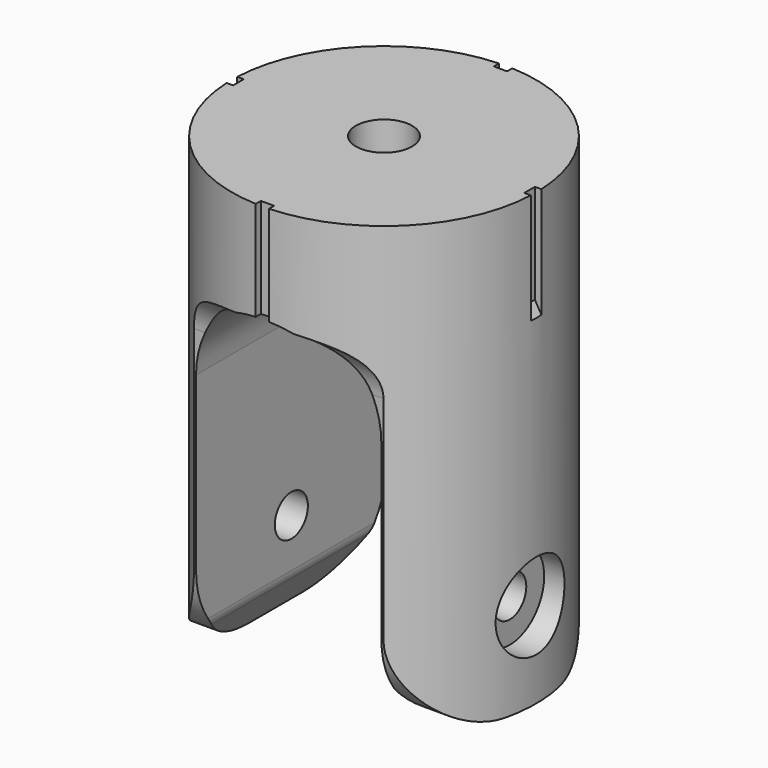
from build123d import *

# Parameters (mm, degrees)
F0_R           = 23
F1_DEPTH       = 68
F3_DEPTH       = 23.001
F3_DEPTH_BACK  = 23.001
F5_DEPTH       = 23.0010001
F5_DEPTH_BACK  = 23.0010001
F8_R           = 4.25
F9_DEPTH       = 25
F12_DEPTH      = 10
F13_W          = 2
F13_H          = 2
F14_DEPTH      = 25
F16_DEPTH      = 1
F16_DEPTH_BACK = 1


with BuildPart() as f1:
    # F0 (on Top) → F1 (new body)
    with BuildSketch(Plane.XY):
        Circle(F0_R)
    extrude(amount=-F1_DEPTH)

    # F2 (on Right) → F3 (cut, two sides)
    with BuildSketch(Plane.YZ) as f3_sk:
        with BuildLine():
            Line((-25, -15), (-28, -15))
            Line((-28, -15), (-28, -73))
            Line((-28, -73), (0, -73))
            Line((0, -73), (28, -73))
            Line((28, -73), (28, -15))
            Line((28, -15), (25, -15))
            ThreePointArc((25, -15), (20, -17.6457513111), (18, -22.9372539332))
            Line((18, -22.9372539332), (18, -55))
            ThreePointArc((18, -55), (14.1923881554, -64.1923881554), (5, -68))
            Line((5, -68), (0, -68))
            Line((0, -68), (-5, -68))
            ThreePointArc((-5, -68), (-14.1923881554, -64.1923881554), (-18, -55))
            Line((-18, -55), (-18, -22.9372539332))
            ThreePointArc((-18, -22.9372539332), (-20, -17.6457513111), (-25, -15))
        make_face()
    extrude(amount=-F3_DEPTH, mode=Mode.SUBTRACT)
    extrude(f3_sk.sketch, amount=F3_DEPTH_BACK, mode=Mode.SUBTRACT)

    # F4 (on Front) → F5 (cut, two sides)
    with BuildSketch(Plane.XZ) as f5_sk:
        with BuildLine():
            Line((14, -62.3349160121), (14, -29))
            ThreePointArc((14, -29), (0, -15), (-14, -29))
            Line((-14, -29), (-14, -62.3349160121))
            ThreePointArc((-14, -62.3349160121), (-14.0711119786, -62.9842348539), (-14.2810766389, -63.6027707973))
            Line((-14.2810766389, -63.6027707973), (-16.3315382908, -68))
            Line((-16.3315382908, -68), (16.3315382908, -68))
            Line((16.3315382908, -68), (14.2810766389, -63.6027707973))
            ThreePointArc((14.2810766389, -63.6027707973), (14.0711119786, -62.9842348539), (14, -62.3349160121))
        make_face()
    extrude(amount=-F5_DEPTH, mode=Mode.SUBTRACT)
    extrude(f5_sk.sketch, amount=F5_DEPTH_BACK, mode=Mode.SUBTRACT)

    # F6 (on Front) → F7 (revolve, cut)
    with BuildSketch(Plane.XZ):
        Polygon((-19, -48.5), (-26, -48.5), (-26, -55), (0, -55), (26, -55), (26, -48.5), (19, -48.5), (19, -51.8758), (0, -51.8758), (-19, -51.8758), align=None)
    revolve(axis=Axis((0.0713579357, 0, -55), (1, 0, 0)), mode=Mode.SUBTRACT)

    # F8 (on face) → F9 (cut)
    with BuildSketch(Plane.XY):
        Circle(F8_R)
    extrude(amount=-F9_DEPTH, mode=Mode.SUBTRACT)

    # F11 (on offset) → F12 (cut)
    with BuildSketch(Plane.XY.offset(-10)):
        Polygon((3.6661742094, -6.35), (7.3323484187, 0), (3.6661742094, 6.35), (-3.6661742094, 6.35), (-7.3323484187, 0), (-3.6661742094, -6.35), align=None)
    extrude(amount=-F12_DEPTH, mode=Mode.SUBTRACT)

    # F13 (on face) → F14 (cut)
    with BuildSketch(Plane.XY):
        with Locations((0, 23)):
            Rectangle(F13_W, F13_H)
        with Locations((0, -23)):
            Rectangle(F13_W, F13_H)
    extrude(amount=-F14_DEPTH, mode=Mode.SUBTRACT)

    # F15 (on Front) → F16 (cut, two sides)
    with BuildSketch(Plane.XZ) as f16_sk:
        Polygon((-22, -15), (-22, 0), (-25, 0), (-25, -18.4641016151), (-24, -18.4641016151), align=None)
        Polygon((22, -15), (24, -18.4641016151), (25, -18.4641016151), (25, 0), (22, 0), align=None)
    extrude(amount=-F16_DEPTH, mode=Mode.SUBTRACT)
    extrude(f16_sk.sketch, amount=F16_DEPTH_BACK, mode=Mode.SUBTRACT)


solid = f1.part
